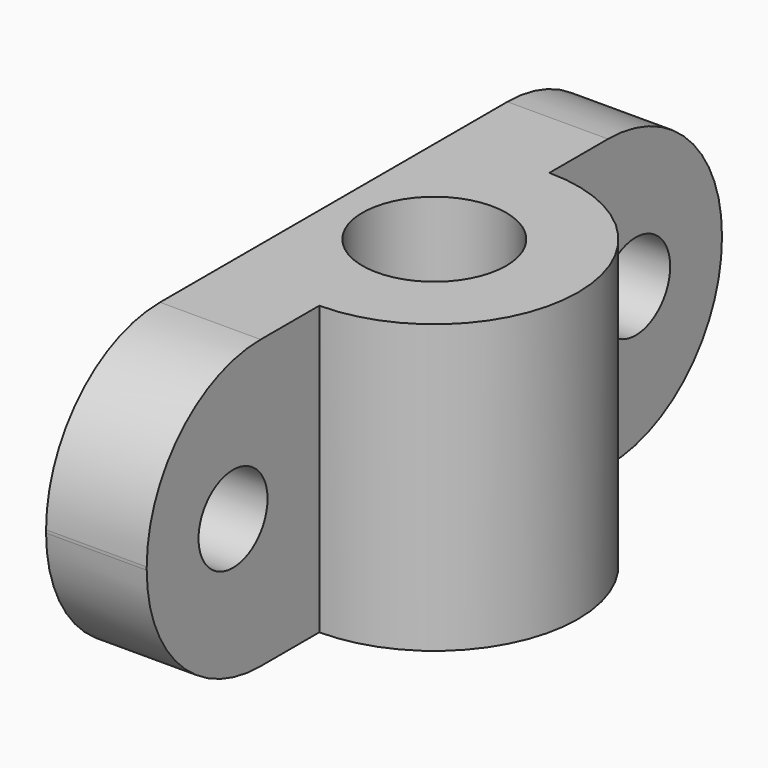
from build123d import *

# Parameters (mm, degrees)
PAD030_DEPTH       = 20
SKETCH021_R        = 5
POCKET001006_DEPTH = 20.001
FILLET_R           = 9.9
SKETCH024_R        = 3
POCKET002_DEPTH    = 7.001


with BuildPart() as part:
    # Sketch020 → Pad030 (new body)
    with BuildSketch(Plane.XY):
        with BuildLine():
            Line((18, 0), (25, 0))
            Line((25, 0), (25, 15))
            ThreePointArc((25, 15), (35, 25), (25, 35))
            Line((25, 35), (25, 50))
            Line((25, 50), (18, 50))
            Line((18, 50), (18, 0))
        make_face()
    extrude(amount=PAD030_DEPTH)

    # Sketch021 → Pocket001006 (cut, through all)
    with BuildSketch(Plane(origin=(0, 0, 0), x_dir=(1, 0, 0), z_dir=(0, 0, -1))):
        with Locations((25, -25)):
            Circle(SKETCH021_R)
    extrude(amount=-POCKET001006_DEPTH, mode=Mode.SUBTRACT)

    # Fillet
    fillet_edges = [part.edges().sort_by_distance(p)[0] for p in [
        (21.5, 0, 0),
        (21.5, 50, 0),
        (21.5, 50, 20),
        (21.5, 0, 20),
    ]]
    fillet(fillet_edges, radius=FILLET_R)

    # Sketch024 → Pocket002 (cut, through all)
    with BuildSketch(Plane.YZ.offset(25)):
        with Locations((7.5, 10)):
            Circle(SKETCH024_R)
        with Locations((42.5, 10)):
            Circle(SKETCH024_R)
    extrude(amount=-POCKET002_DEPTH, mode=Mode.SUBTRACT)


solid = part.part
